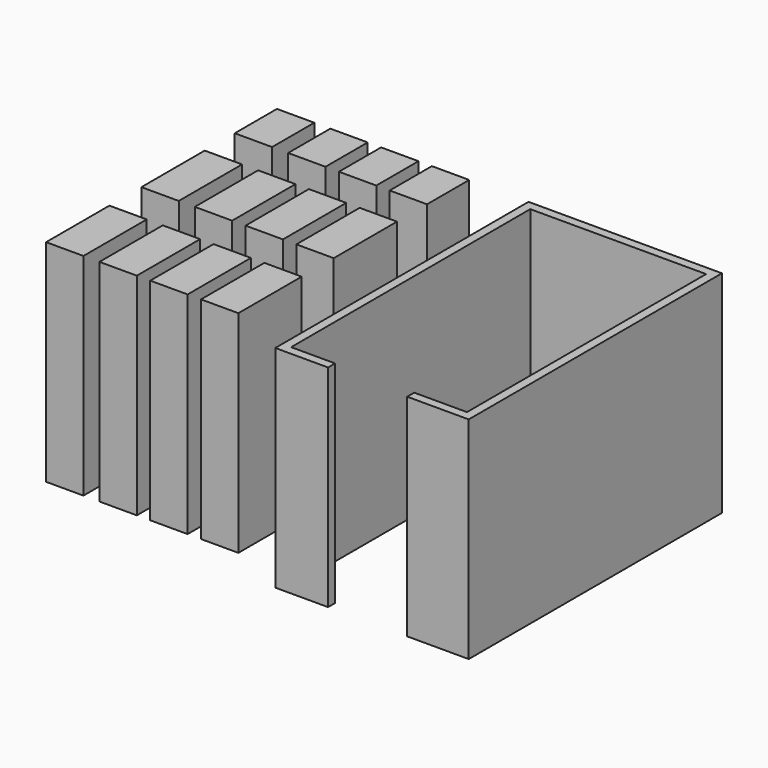
from build123d import *

# Parameters (mm, degrees)
F1_DEPTH = 2438.4
F2_W     = 431.8
F2_H     = 609.6
F2_H_2   = 914.4
F3_DEPTH = 2438.4


with BuildPart() as f1:
    # F0 (on Top) → F1 (new body)
    with BuildSketch(Plane.XY):
        Polygon((508, 0), (0, 0), (0, 3454.4), (2032, 3454.4), (2032, 0), (1422.4, 0), (1422.4, -101.599999), (2133.599999, -101.599999), (2133.599999, 3555.999999), (-101.599999, 3555.999999), (-101.599999, -101.599999), (508, -101.599999), align=None)
    extrude(amount=F1_DEPTH)


with BuildPart() as f3:
    # F2 (on face) → F3 (new body)
    with BuildSketch(Plane(origin=(0, 0, 0), x_dir=(1, 0, 0), z_dir=(0, 0, -1))):
        with Locations((-1002.290193, -3251.199999)):
            Rectangle(F2_W, F2_H)
        with Locations((-1002.290193, -2055.357983)):
            Rectangle(F2_W, F2_H_2)
        with Locations((-1002.290193, -678.276012)):
            Rectangle(F2_W, F2_H_2)
        with Locations((-2792.754229, -2055.357983)):
            Rectangle(F2_W, F2_H_2)
        with Locations((-2792.754229, -678.276012)):
            Rectangle(F2_W, F2_H_2)
        with Locations((-2792.754229, -3251.199999)):
            Rectangle(F2_W, F2_H)
        with Locations((-1589.030193, -2055.357983)):
            Rectangle(F2_W, F2_H_2)
        with Locations((-1589.030193, -678.276012)):
            Rectangle(F2_W, F2_H_2)
        with Locations((-1589.030193, -3251.199999)):
            Rectangle(F2_W, F2_H)
        with Locations((-2175.770193, -2055.357983)):
            Rectangle(F2_W, F2_H_2)
        with Locations((-2175.770193, -678.276012)):
            Rectangle(F2_W, F2_H_2)
        with Locations((-2175.770193, -3251.199999)):
            Rectangle(F2_W, F2_H)
    extrude(amount=-F3_DEPTH)


solid = Compound([f1.part, f3.part])
